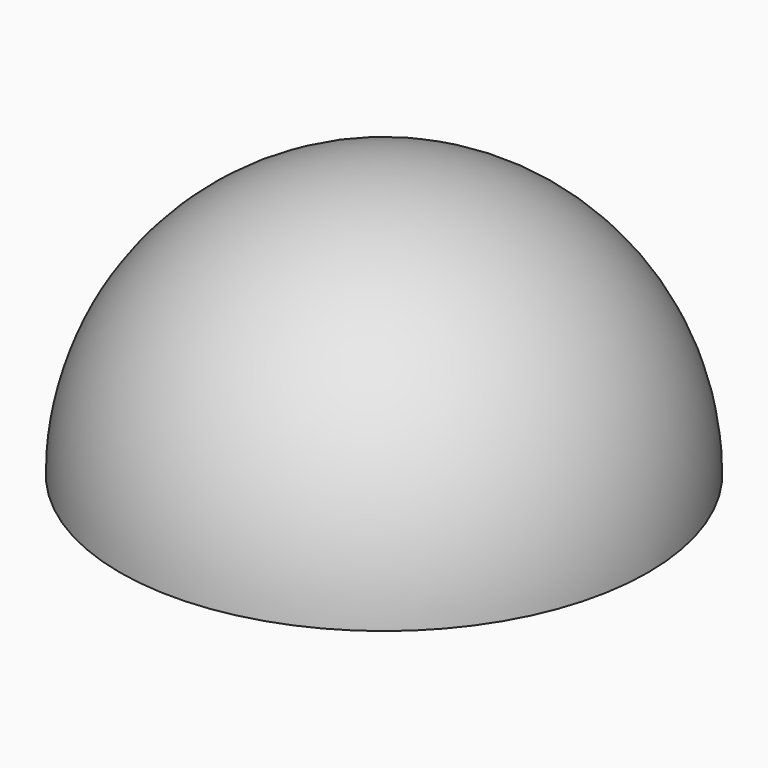
from build123d import *

# Parameters (mm, degrees)
F1_ANGLE = 180
F3_D     = 3
F3_DEPTH = 5
F3_TIP   = 0.9012909285


with BuildPart() as f1:
    # F0 (on Top) → F1 (revolve)
    with BuildSketch(Plane.XY):
        with BuildLine():
            Line((-12.5, 0), (12.5, 0))
            ThreePointArc((12.5, 0), (0, 12.5), (-12.5, 0))
        make_face()
    revolve(axis=Axis((0, 0, 0), (1, 0, 0)), revolution_arc=F1_ANGLE)

    # F3
    with Locations(Plane(origin=(0, 0, 0), x_dir=(1, 0, 0), z_dir=(0, 0, -1))):
        with Locations((-5, 5), (5, 5), (5, -5), (-5, -5)):
            Hole(F3_D / 2, depth=F3_DEPTH)
            with Locations((0, 0, -(F3_DEPTH + F3_TIP / 2))):  # 118° drill point
                Cone(0, F3_D / 2, F3_TIP, mode=Mode.SUBTRACT)


solid = f1.part
